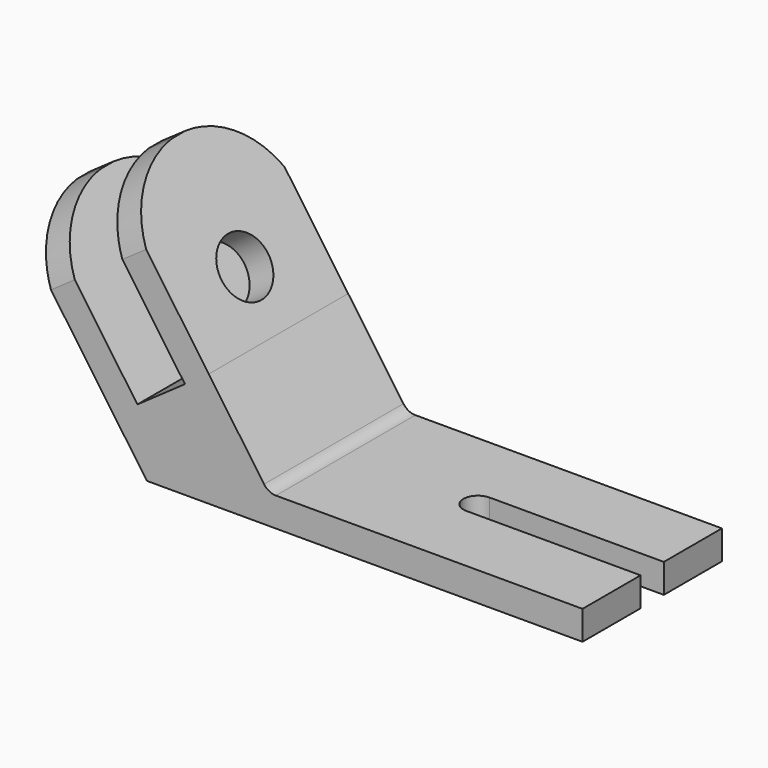
from build123d import *

# Parameters (mm, degrees)
F1_DEPTH = 60
F3_DEPTH = 77.588705
F4_R     = 10
F5_DEPTH = 52.1
F7_DEPTH = 25
F8_R     = 5


with BuildPart() as f1:
    # F0 (on Front) → F1 (new body)
    with BuildSketch(Plane.XZ):
        Polygon((-120.213985, -34.176537), (29.786015, -34.176537), (29.786015, -24.176537), (-78.385077, -24.176537), (-98.919432, 5.149562), (-133.334018, 54.298684), (-141.525538, 48.56292), (-107.110952, -0.586203), (-123.493993, -12.057731), (-157.908579, 37.091391), (-166.1001, 31.355627), align=None)
    extrude(amount=F1_DEPTH)

    # F2 (on face) → F3 (cut, through all)
    with BuildSketch(Plane(origin=(-63.956432, 0, -44.782776), x_dir=(0, 1, 0), z_dir=(0.819152, 0, 0.573576))):
        with BuildLine():
            ThreePointArc((-60, 80.946133), (-29.664459, 121.080285), (0, 80.447599))
            Line((0, 80.447599), (29.212171, 131.16917))
            Line((29.212171, 131.16917), (-70.869207, 149.550825))
            Line((-70.869207, 149.550825), (-73.535636, 96.864909))
            Line((-73.535636, 96.864909), (-60, 80.946133))
        make_face()
    extrude(amount=-F3_DEPTH, mode=Mode.SUBTRACT)

    # F4 (on face) → F5 (cut)
    with BuildSketch(Plane(origin=(-63.956432, 0, -44.782776), x_dir=(0, 1, 0), z_dir=(0.819152, 0, 0.573576))):
        with Locations((-30, 81.155573)):
            Circle(F4_R)
    extrude(amount=-F5_DEPTH, mode=Mode.SUBTRACT)

    # F6 (on face) → F7 (cut)
    with BuildSketch(Plane.XY.offset(-24.176537)):
        with BuildLine():
            ThreePointArc((-30.213985, -35), (-26.678451, -33.535534), (-25.213985, -30))
            ThreePointArc((-25.213985, -30), (-26.678451, -26.464466), (-30.213985, -25))
            ThreePointArc((-30.213985, -25), (-35.213985, -30), (-30.213985, -35))
        make_face()
        with BuildLine():
            ThreePointArc((-30.213985, -25), (-26.678451, -26.464466), (-25.213985, -30))
            ThreePointArc((-25.213985, -30), (-26.678451, -33.535534), (-30.213985, -35))
            Line((-30.213985, -35), (33.633854, -35))
            Line((33.633854, -35), (34.827039, -25))
            Line((34.827039, -25), (-30.213985, -25))
        make_face()
    extrude(amount=-F7_DEPTH, mode=Mode.SUBTRACT)

    # F8
    f8_edges = [f1.edges().sort_by_distance(p)[0] for p in [
        (-78.385077, -30, -24.176537),
    ]]
    fillet(f8_edges, radius=F8_R)


solid = f1.part
